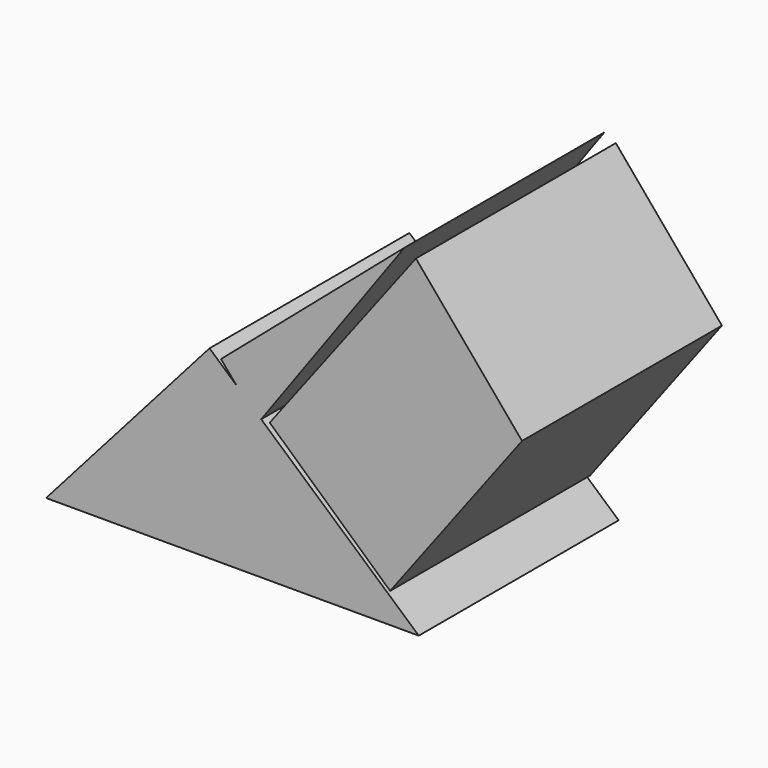
from build123d import *

# Parameters (mm, degrees)
F1_DEPTH = 25.4
F3_DEPTH = 25.4
F5_DEPTH = 25.4


with BuildPart() as f1:
    # F0 (on Front) → F1 (new body)
    with BuildSketch(Plane.XZ):
        Polygon((-31.770822, 18.800164), (-48.38492, 0), (-10.496952, 0), align=None)
    extrude(amount=F1_DEPTH)

    # F4 (on Front) → F5 (join)
    with BuildSketch(Plane.XZ):
        Polygon((-26.791301, 13.77955), (-11.950492, 34.24836), (-30.604918, 18.217213), align=None)
    extrude(amount=F5_DEPTH)


with BuildPart() as f3:
    # F2 (on Front) → F3 (new body)
    with BuildSketch(Plane.XZ):
        Polygon((-10.784591, 33.665407), (-25.649836, 14.136557), (-13.407868, 3.060492), (0, 20.840492), align=None)
    extrude(amount=F3_DEPTH)


solid = Compound([f1.part, f3.part])
